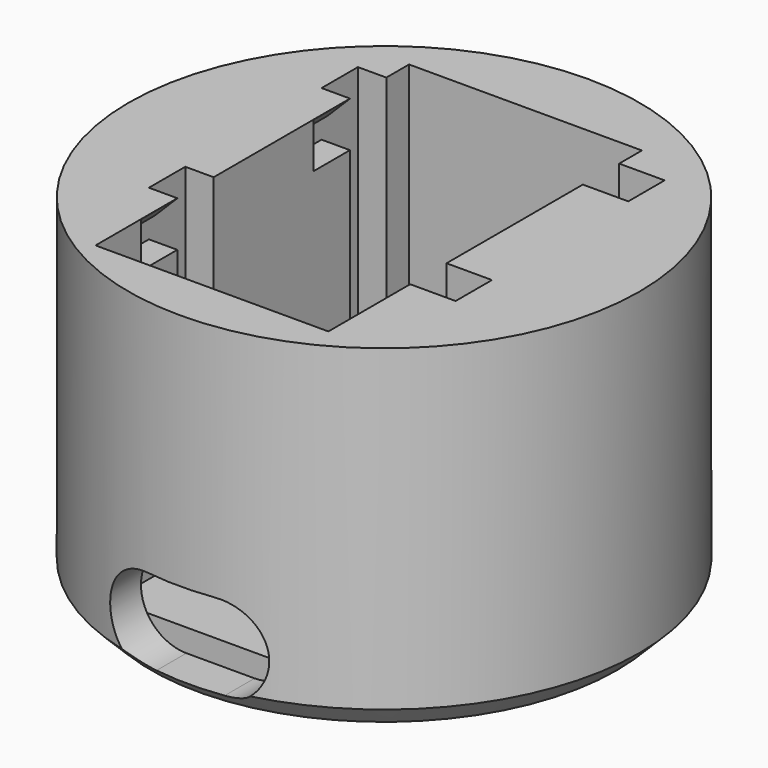
from build123d import *

# Parameters (mm, degrees)
SKETCH025_R     = 22.5
PAD008_DEPTH    = 30
CHAMFER006_SIZE = 2
SKETCH026_W     = 19
SKETCH026_H     = 34.5
POCKET016_DEPTH = 27
POCKET017_DEPTH = 5
SKETCH028_W     = 4
SKETCH028_H     = 4
POCKET018_DEPTH = 23
SKETCH029_W     = 4
SKETCH029_H     = 2
POCKET019_DEPTH = 4
SKETCH030_W     = 4
SKETCH030_H     = 2
POCKET020_DEPTH = 4
SKETCH034_W     = 11
SKETCH034_H     = 34.5
POCKET_DEPTH    = 18
CHAMFER_1_SIZE2 = 3.99
CHAMFER_1_SIZE  = 1.99
CHAMFER_2_SIZE2 = 3.99
CHAMFER_2_SIZE  = 1.99
CHAMFER007_SIZE = 1.99


with BuildPart() as part:
    # Sketch025 → Pad008 (new body)
    with BuildSketch(Plane.XY):
        Circle(SKETCH025_R)
    extrude(amount=PAD008_DEPTH)

    # Chamfer006
    chamfer006_edges = [part.edges().sort_by_distance(p)[0] for p in [
        (-22.5, 0, 0),
    ]]
    chamfer(chamfer006_edges, length=CHAMFER006_SIZE)

    # Sketch026 (on Face3 of Chamfer006) → Pocket016 (cut)
    with BuildSketch(Plane.XY.offset(30)):
        with Locations((0, -0.75)):
            Rectangle(SKETCH026_W, SKETCH026_H)
    extrude(amount=-POCKET016_DEPTH, mode=Mode.SUBTRACT)

    # Sketch027 (on Face6 of Pocket016) → Pocket017 (cut)
    with BuildSketch(Plane(origin=(0, -18, 0), x_dir=(-1, 0, 0), z_dir=(0, 1, 0))):
        with BuildLine():
            ThreePointArc((-3, 9), (-7, 5), (-3, 1))
            Line((-3, 1), (3, 1))
            ThreePointArc((3, 1), (7, 5), (3, 9))
            Line((3, 9), (-3, 9))
        make_face()
    extrude(amount=-POCKET017_DEPTH, mode=Mode.SUBTRACT)

    # Sketch028 (on Face6 of Pocket017) → Pocket018 (cut)
    with BuildSketch(Plane.XY.offset(30)):
        with Locations((-11.5, 12)):
            Rectangle(SKETCH028_W, SKETCH028_H)
        with Locations((-11.5, -7)):
            Rectangle(SKETCH028_W, SKETCH028_H)
        with Locations((11.5, -7)):
            Rectangle(SKETCH028_W, SKETCH028_H)
        with Locations((11.5, 12)):
            Rectangle(SKETCH028_W, SKETCH028_H)
    extrude(amount=-POCKET018_DEPTH, mode=Mode.SUBTRACT)

    # Sketch029 (on Face19 of Pocket018) → Pocket019 (cut)
    with BuildSketch(Plane.YZ.offset(-9.5)):
        with Locations((-11, 27)):
            Rectangle(SKETCH029_W, SKETCH029_H)
        with Locations((8, 27)):
            Rectangle(SKETCH029_W, SKETCH029_H)
        with Locations((8, 8)):
            Rectangle(SKETCH029_W, SKETCH029_H)
    extrude(amount=-POCKET019_DEPTH, mode=Mode.SUBTRACT)

    # Sketch030 (on Face11 of Pocket019) → Pocket020 (cut)
    with BuildSketch(Plane(origin=(9.5, 0, 0), x_dir=(0, -1, 0), z_dir=(-1, 0, 0))):
        with Locations((-8, 8)):
            Rectangle(SKETCH030_W, SKETCH030_H)
        with Locations((-8, 27)):
            Rectangle(SKETCH030_W, SKETCH030_H)
        with Locations((11, 8)):
            Rectangle(SKETCH030_W, SKETCH030_H)
        with Locations((11, 27)):
            Rectangle(SKETCH030_W, SKETCH030_H)
    extrude(amount=-POCKET020_DEPTH, mode=Mode.SUBTRACT)

    # Sketch034 (on Face6 of Pocket020) → Pocket (cut)
    with BuildSketch(Plane.XY.offset(30)):
        with Locations((-5.5, -0.75)):
            Rectangle(SKETCH034_W, SKETCH034_H)
    extrude(amount=-POCKET_DEPTH, mode=Mode.SUBTRACT)

    # Chamfer 1
    chamfer_1_edges = [part.edges().sort_by_distance(p)[0] for p in [
        (9.5, 8, 28),
        (9.5, -11, 28),
        (9.5, -11, 9),
        (9.5, 8, 9),
    ]]
    chamfer_1_side = part.faces().sort_by_distance((9.5, -1.552236, 15.94095))[0]
    chamfer(chamfer_1_edges, length=CHAMFER_1_SIZE, length2=CHAMFER_1_SIZE2, reference=chamfer_1_side)

    # Chamfer 2
    chamfer_2_edges = [part.edges().sort_by_distance(p)[0] for p in [
        (-9.5, 8, 9),
    ]]
    chamfer_2_side = part.faces().sort_by_distance((-9.5, -1.511905, 7.18))[0]
    chamfer(chamfer_2_edges, length=CHAMFER_2_SIZE, length2=CHAMFER_2_SIZE2, reference=chamfer_2_side)

    # Chamfer007
    chamfer007_edges = [part.edges().sort_by_distance(p)[0] for p in [
        (-11, 8, 28),
        (-11, -11, 28),
    ]]
    chamfer(chamfer007_edges, length=CHAMFER007_SIZE)


solid = part.part
